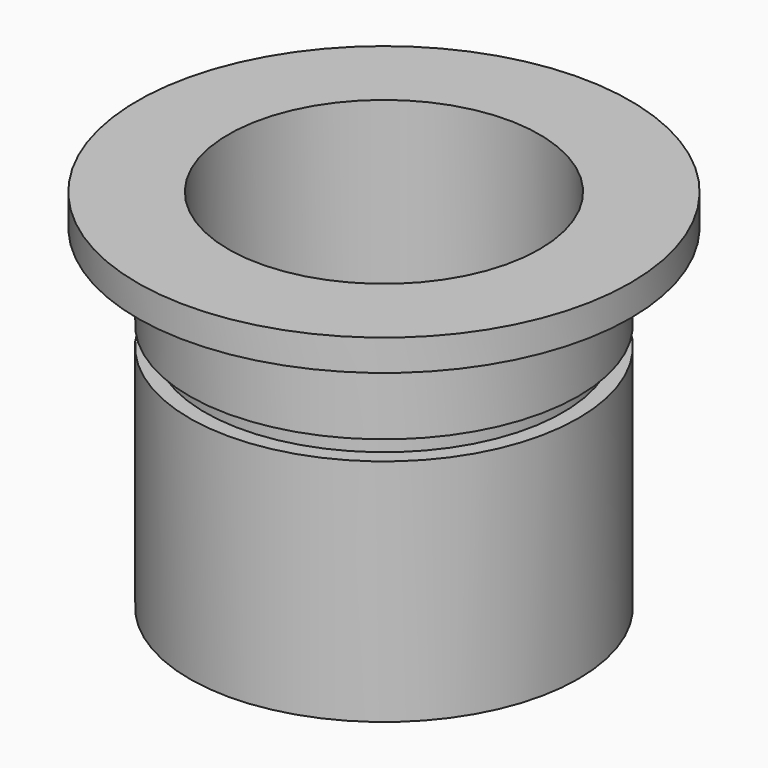
from build123d import *

# Parameters (mm, degrees)
F0_R     = 12.5
F1_DEPTH = 21.5
F2_R     = 15.85
F2_R_2   = 12.5
F3_DEPTH = 2
F5_D     = 15.75
F5_DEPTH = 23.5
F5_TIP   = 4.7317773748
F6_R     = 10
F7_DEPTH = 17
F8_W     = 1
F8_H     = 1.25


with BuildPart() as f1:
    # F0 (on Top) → F1 (new body)
    with BuildSketch(Plane.XY):
        Circle(F0_R)
    extrude(amount=F1_DEPTH)

    # F2 (on face) → F3 (join)
    with BuildSketch(Plane.XY.offset(21.5)):
        Circle(F2_R)
        Circle(F2_R_2, mode=Mode.SUBTRACT)
        Circle(F2_R_2)
    extrude(amount=F3_DEPTH)

    # F5
    with Locations(Plane.XY.offset(23.5)):
        with Locations((0, 0)):
            Hole(F5_D / 2, depth=F5_DEPTH)
            with Locations((0, 0, -(F5_DEPTH + F5_TIP / 2))):  # 118° drill point
                Cone(0, F5_D / 2, F5_TIP, mode=Mode.SUBTRACT)

    # F6 (on face) → F7 (cut)
    with BuildSketch(Plane.XY.offset(23.5)):
        Circle(F6_R)
    extrude(amount=-F7_DEPTH, mode=Mode.SUBTRACT)

    # F8 (on Front) → F9 (revolve, cut)
    with BuildSketch(Plane.XZ):
        with Locations((-12, 15.375)):
            Rectangle(F8_W, F8_H)
    revolve(axis=Axis((0, 0, 8), (0, 0, 1)), mode=Mode.SUBTRACT)


solid = f1.part
